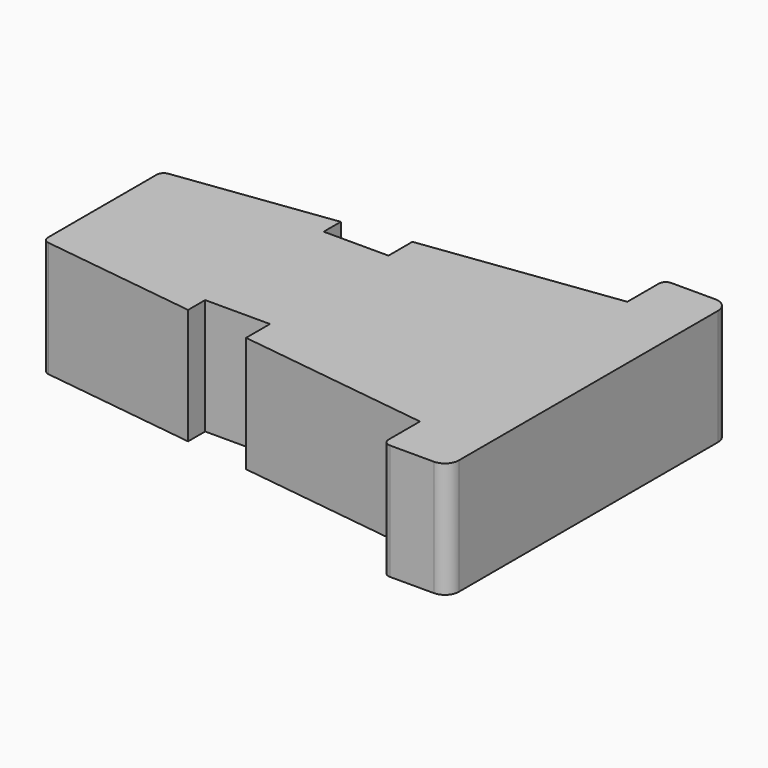
from build123d import *

# Parameters (mm, degrees)
F1_DEPTH = 25


with BuildPart() as f1:
    # F0 (on Top) → F1 (new body)
    with BuildSketch(Plane.XY):
        with BuildLine():
            Line((28.505627, -41.594205), (28.505627, 28.405795))
            ThreePointArc((28.505627, 28.405795), (27.626947, 30.527115), (25.505627, 31.405795))
            Line((25.505627, 31.405795), (16.005627, 31.405795))
            ThreePointArc((16.005627, 31.405795), (14.944967, 30.966455), (14.505627, 29.905795))
            Line((14.505627, 29.905795), (14.505627, 21.405795))
            Line((14.505627, 21.405795), (-27.494373, 15.867333))
            Line((-27.494373, 15.867333), (-27.494373, 9.405795))
            Line((-27.494373, 9.405795), (-41.494373, 9.405795))
            Line((-41.494373, 9.405795), (-41.494373, 14.021179))
            Line((-41.494373, 14.021179), (-75.190478, 9.577737))
            ThreePointArc((-75.190478, 9.577737), (-76.122238, 9.07951), (-76.494373, 8.090611))
            Line((-76.494373, 8.090611), (-76.494373, -21.279022))
            ThreePointArc((-76.494373, -21.279022), (-76.122238, -22.267921), (-75.190478, -22.766148))
            Line((-75.190478, -22.766148), (-41.494373, -27.20959))
            Line((-41.494373, -27.20959), (-41.494373, -22.594205))
            Line((-41.494373, -22.594205), (-27.494373, -22.594205))
            Line((-27.494373, -22.594205), (-27.494373, -29.055744))
            Line((-27.494373, -29.055744), (14.505627, -34.594205))
            Line((14.505627, -34.594205), (14.505627, -43.094205))
            ThreePointArc((14.505627, -43.094205), (14.944967, -44.154865), (16.005627, -44.594205))
            Line((16.005627, -44.594205), (25.505627, -44.594205))
            ThreePointArc((25.505627, -44.594205), (27.626947, -43.715526), (28.505627, -41.594205))
        make_face()
    extrude(amount=F1_DEPTH)


solid = f1.part
